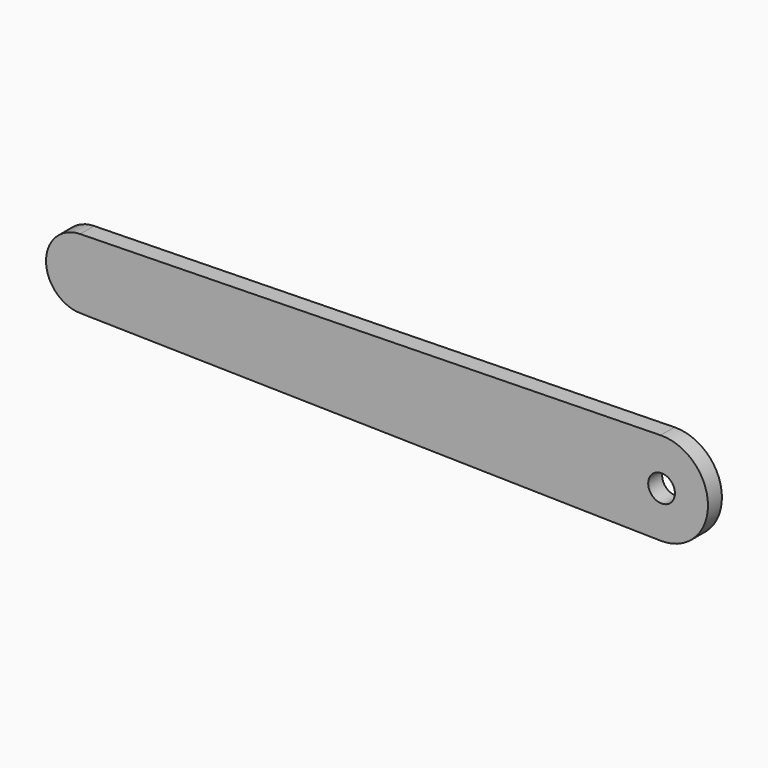
from build123d import *

# Parameters (mm, degrees)
F1_DEPTH = 1.5
F2_R     = 2.3
F3_DEPTH = 25


with BuildPart() as f1:
    # F0 (on Front) → F1 (new body, symmetric)
    with BuildSketch(Plane.XZ):
        with BuildLine():
            ThreePointArc((-50.139944, 5.998801), (-56.019992, 0), (-50.139944, -5.998801))
            Line((-50.139944, -5.998801), (49.860056, -7.998401))
            ThreePointArc((49.860056, -7.998401), (58.019992, 0), (49.860056, 7.998401))
            Line((49.860056, 7.998401), (-50.139944, 5.998801))
        make_face()
    extrude(amount=F1_DEPTH, both=True)

    # F2 (on face) → F3 (cut)
    with BuildSketch(Plane.XZ.offset(1.5)):
        with Locations((50.019992, 0)):
            Circle(F2_R)
    extrude(amount=-F3_DEPTH, mode=Mode.SUBTRACT)


solid = f1.part
